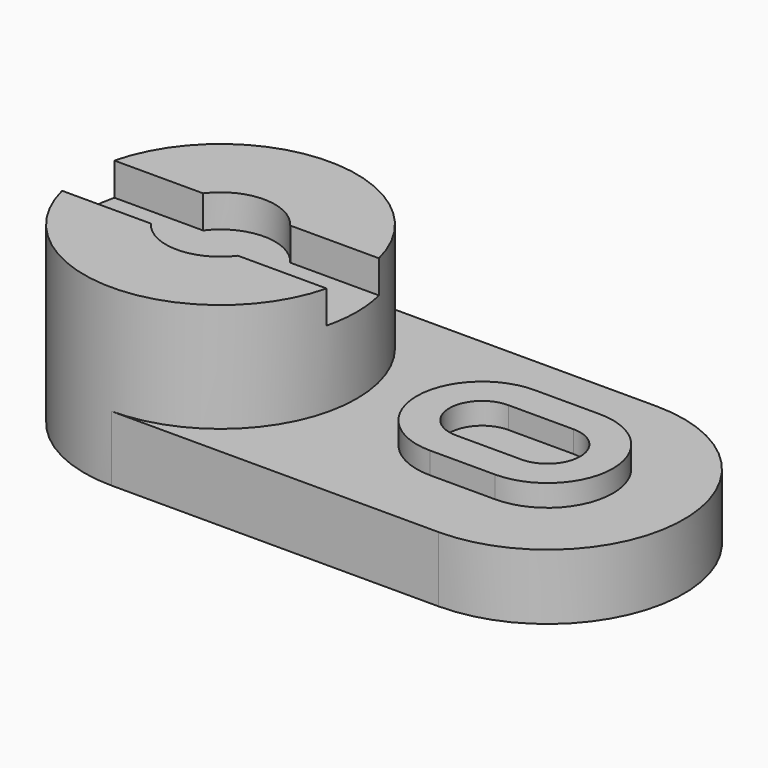
from build123d import *

# Parameters (mm, degrees)
PAD_DEPTH       = 6
SKETCH001_R     = 12.5
PAD001_DEPTH    = 10
SKETCH002_W     = 29.813109
SKETCH002_H     = 6
POCKET_DEPTH    = 3
SKETCH003_R     = 5
POCKET001_DEPTH = 5
PAD002_DEPTH    = 2


with BuildPart() as part:
    # Sketch → Pad (new body)
    with BuildSketch(Plane.XY):
        with BuildLine():
            ThreePointArc((30, -12.5), (42.5, 0), (30, 12.5))
            Line((30, 12.5), (0, 12.5))
            ThreePointArc((0, 12.5), (-12.5, 0), (0, -12.5))
            Line((30, -12.5), (0, -12.5))
        make_face()
    extrude(amount=PAD_DEPTH)

    # Sketch001 → Pad001 (new body)
    with BuildSketch(Plane.XY.offset(6)):
        Circle(SKETCH001_R)
    extrude(amount=PAD001_DEPTH)

    # Sketch002 → Pocket (cut)
    with BuildSketch(Plane.XY.offset(16)):
        with Locations((1.105551, 0)):
            Rectangle(SKETCH002_W, SKETCH002_H)
    extrude(amount=-POCKET_DEPTH, mode=Mode.SUBTRACT)

    # Sketch003 → Pocket001 (cut)
    with BuildSketch(Plane.XY.offset(13)):
        Circle(SKETCH003_R)
    extrude(amount=POCKET001_DEPTH, mode=Mode.SUBTRACT)

    # Sketch004 → Pad002 (new body)
    with BuildSketch(Plane.XY.offset(6)):
        with BuildLine():
            ThreePointArc((24, 6), (18, 0), (24, -6))
            Line((24, -6), (30, -6))
            ThreePointArc((30, -6), (36, 0), (30, 6))
            Line((24, 6), (30, 6))
        make_face()
        with BuildLine():
            ThreePointArc((30, -3), (33, 0), (30, 3))
            Line((30, 3), (24, 3))
            ThreePointArc((24, 3), (21, 0), (24, -3))
            Line((30, -3), (24, -3))
        make_face(mode=Mode.SUBTRACT)
    extrude(amount=PAD002_DEPTH)


solid = part.part
